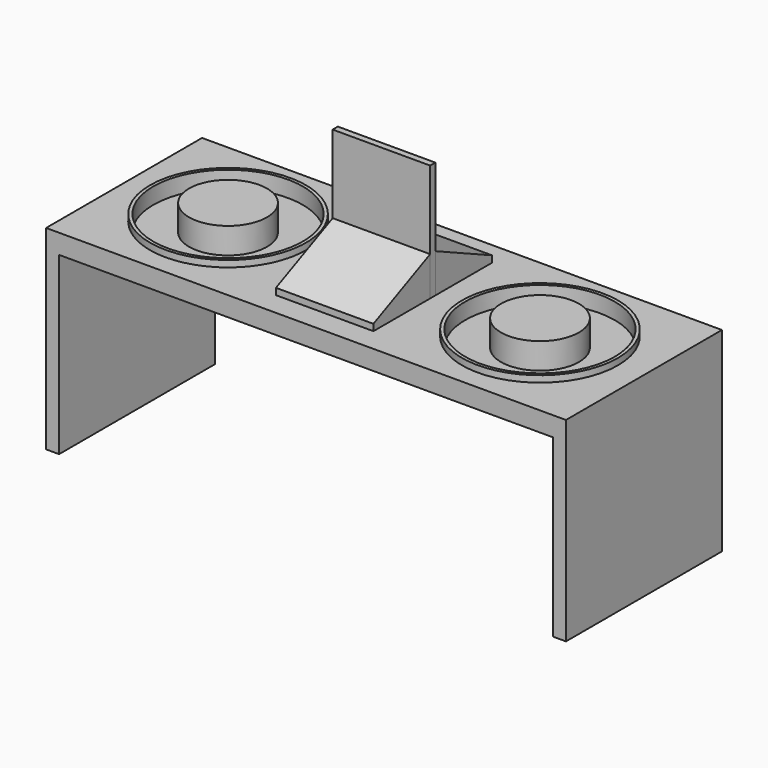
from build123d import *

# Parameters (mm, degrees)
F0_W           = 2032
F0_H           = 762
F1_DEPTH       = 76.2
F2_W           = 50.8
F2_H           = 762
F3_DEPTH       = 685.8
F6_W           = 152.4
F6_H           = 101.6
F10_DEPTH      = 127
F10_DEPTH_BACK = 127
F11_R          = 304.8
F12_DEPTH      = 50.8
F16_DEPTH      = 12.7
F16_DEPTH_BACK = 12.7
F17_W          = 355.6
F17_H          = 431.8
F18_DEPTH      = 6.35
F18_DEPTH_BACK = 6.35
F21_W          = 381
F21_H          = 457.2
F22_DEPTH      = 12.7
F22_DEPTH_BACK = 12.7
F24_DEPTH      = 190.5
F24_DEPTH_BACK = 190.5


with BuildPart() as f1:
    # F0 (on Top) → F1 (new body)
    with BuildSketch(Plane.XY):
        Rectangle(F0_W, F0_H)
    extrude(amount=-F1_DEPTH)

    # F2 (on face) → F3 (join)
    with BuildSketch(Plane(origin=(0, 0, -76.2), x_dir=(1, 0, 0), z_dir=(0, 0, -1))):
        with Locations((-990.6, 0)):
            Rectangle(F2_W, F2_H)
        with Locations((990.6, 0)):
            Rectangle(F2_W, F2_H)
    extrude(amount=F3_DEPTH)

    # F11 (on face) → F12 (cut)
    with BuildSketch(Plane.XY):
        with Locations((-609.6, 0)):
            Circle(F11_R)
        with Locations((609.6, 0)):
            Circle(F11_R)
    extrude(amount=-F12_DEPTH, mode=Mode.SUBTRACT)


with BuildPart() as f5:
    # F4 (on Front) → F5 (revolve)
    with BuildSketch(Plane.XZ):
        Polygon((-914.4, -50.8), (-609.6, -50.8), (-609.6, -38.1), (-901.7, -38.1), (-901.7, 25.4), (-914.4, 25.4), align=None)
    revolve(axis=Axis((-609.6, 0, -44.45), (0, 0, -1)))


with BuildPart() as f7:
    # F6 (on Front) → F7 (revolve)
    with BuildSketch(Plane.XZ):
        with Locations((-685.8, 12.7)):
            Rectangle(F6_W, F6_H)
    revolve(axis=Axis((-609.6, 0, 12.7), (0, 0, -1)))


with BuildPart() as f8_1:
    # F8: instance of F7
    add(f7.part.mirror(Plane.YZ))


with BuildPart() as f8_2:
    # F8: instance of F5
    add(f5.part.mirror(Plane.YZ))


with BuildPart() as f10:
    # F9 (on Right) → F10 (new body, two sides)
    with BuildSketch(Plane.YZ) as f10_sk:
        Polygon((50.8, 152.4), (0, 152.4), (-50.8, 152.4), (-327.8812877117, 25.4), (-327.8812877117, 0), (0, 0), (327.8812877117, 0), (327.8812877117, 25.4), align=None)
    extrude(amount=F10_DEPTH)
    extrude(f10_sk.sketch, amount=-F10_DEPTH_BACK)


with BuildPart() as f16:
    # F15 (on Front) → F16 (new body, two sides)
    with BuildSketch(Plane.XZ) as f16_sk:
        Polygon((-203.2, 457.2), (-203.2, 0), (-177.8, 0), (0, 0), (0, 25.4), (-177.8, 25.4), (-177.8, 431.8), (0, 431.8), (0, 457.2), align=None)
        Polygon((203.2, 457.2), (0, 457.2), (0, 431.8), (177.8, 431.8), (177.8, 25.4), (0, 25.4), (0, 0), (177.8, 0), (203.2, 0), align=None)
    extrude(amount=F16_DEPTH)
    extrude(f16_sk.sketch, amount=-F16_DEPTH_BACK)


with BuildPart() as f18:
    # F17 (on Front) → F18 (new body, two sides)
    with BuildSketch(Plane.XZ) as f18_sk:
        with Locations((0, 215.9)):
            Rectangle(F17_W, F17_H)
    extrude(amount=F18_DEPTH)
    extrude(f18_sk.sketch, amount=-F18_DEPTH_BACK)


with BuildPart() as f22:
    # F21 (on Front) → F22 (new body, two sides)
    with BuildSketch(Plane.XZ) as f22_sk:
        with Locations((0, 228.6)):
            Rectangle(F21_W, F21_H)
    extrude(amount=F22_DEPTH)
    extrude(f22_sk.sketch, amount=-F22_DEPTH_BACK)


with BuildPart() as f24:
    # F23 (on Right) → F24 (new body, two sides)
    with BuildSketch(Plane.YZ) as f24_sk:
        Polygon((289.7812877117, 25.4), (12.7, 152.4), (12.7, 0), (289.7812877117, 0), align=None)
    extrude(amount=F24_DEPTH)
    extrude(f24_sk.sketch, amount=-F24_DEPTH_BACK)


with BuildPart() as f24b:
    # F23 (on Right) → F24, piece 2 (new body, two sides)
    with BuildSketch(Plane.YZ) as f24_2_sk:
        Polygon((-12.7, 0), (-12.7, 152.4), (-289.7812877117, 25.4), (-289.7812877117, 0), align=None)
    extrude(amount=F24_DEPTH)
    extrude(f24_2_sk.sketch, amount=-F24_DEPTH_BACK)


solid = Compound([f1.part, f5.part, f7.part, f8_1.part, f8_2.part, f22.part, f24.part, f24b.part])
